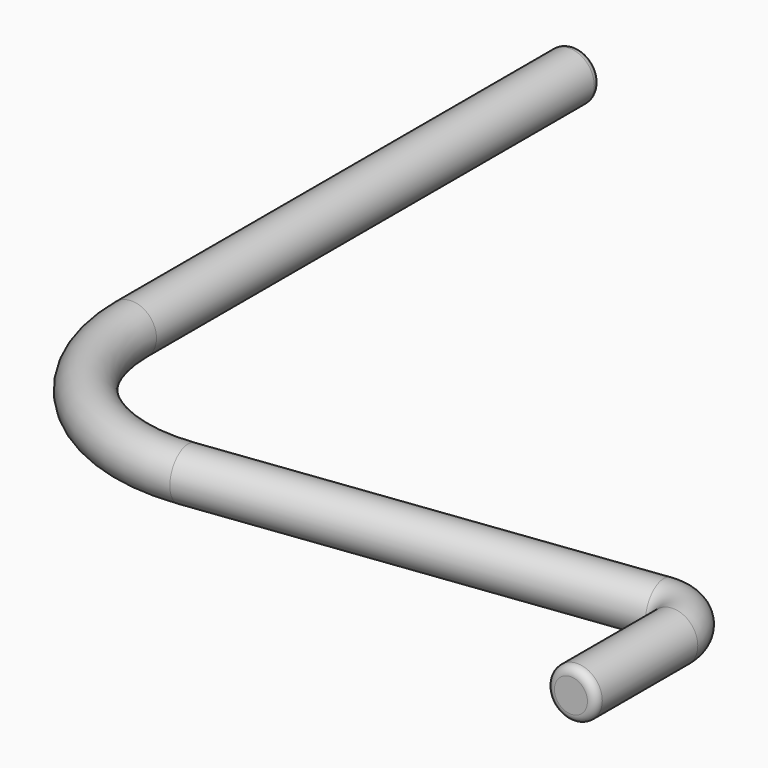
from build123d import *

# Parameters (mm, degrees)
F3_R = 1.5
F5_R = 0.5


with BuildPart() as f4:
    # F4: sweep along a path in F1
    with BuildLine(Plane.XY) as f4_path:
        Line((-39.686269666, 50), (-39.686269666, 16.3389341903))
        ThreePointArc((-39.686269666, 16.3389341903), (-36.3006479436, 8.8389341903), (-28.436269666, 6.4173667738))
        Line((-28.436269666, 6.4173667738), (-2.25, 9.7165266452))
        ThreePointArc((-2.25, 9.7165266452), (-0.6771243445, 9.2322131619), (0, 7.7322131619))
        Line((0, 7.7322131619), (0, 0))
    # F3 (on offset) → F4 (sweep)
    with BuildSketch(Plane.XZ.offset(-50)):
        with Locations((-39.686269666, 0)):
            Circle(F3_R)
    sweep(path=f4_path.line)

    # F5
    f5_edges = [f4.edges().sort_by_distance(p)[0] for p in [
        (-41.18627, 50, 0),
        (-1.5, 0, 0),
    ]]
    fillet(f5_edges, radius=F5_R)


solid = f4.part
